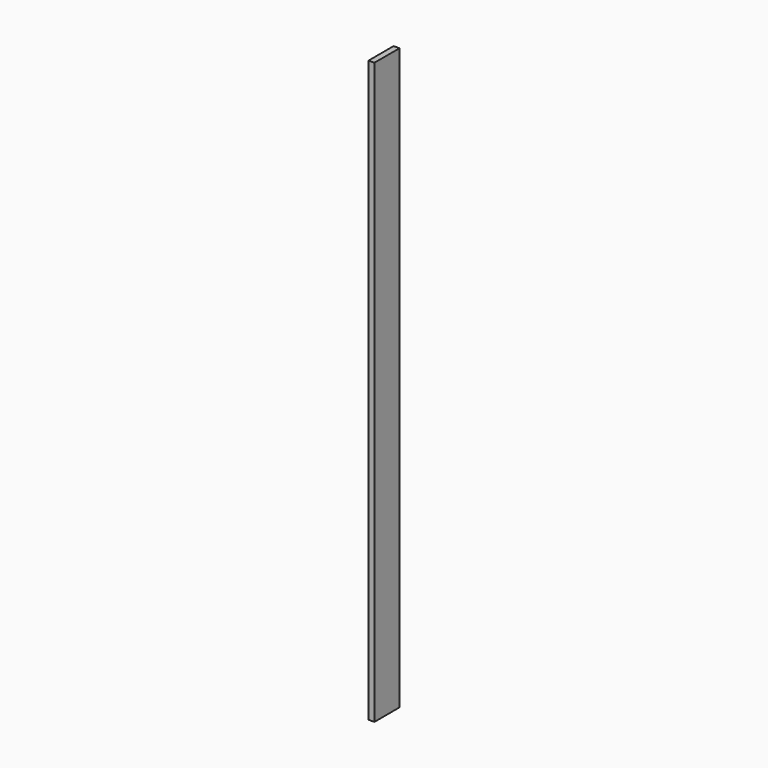
from build123d import *

# Parameters (mm, degrees)
F0_W     = 101.6
F0_H     = 1879.6
F1_DEPTH = 19.05


with BuildPart() as f1:
    # F0 (on Right) → F1 (new body)
    with BuildSketch(Plane.YZ):
        with Locations((0, -2.4e-05)):
            Rectangle(F0_W, F0_H)
    extrude(amount=F1_DEPTH)


solid = f1.part
